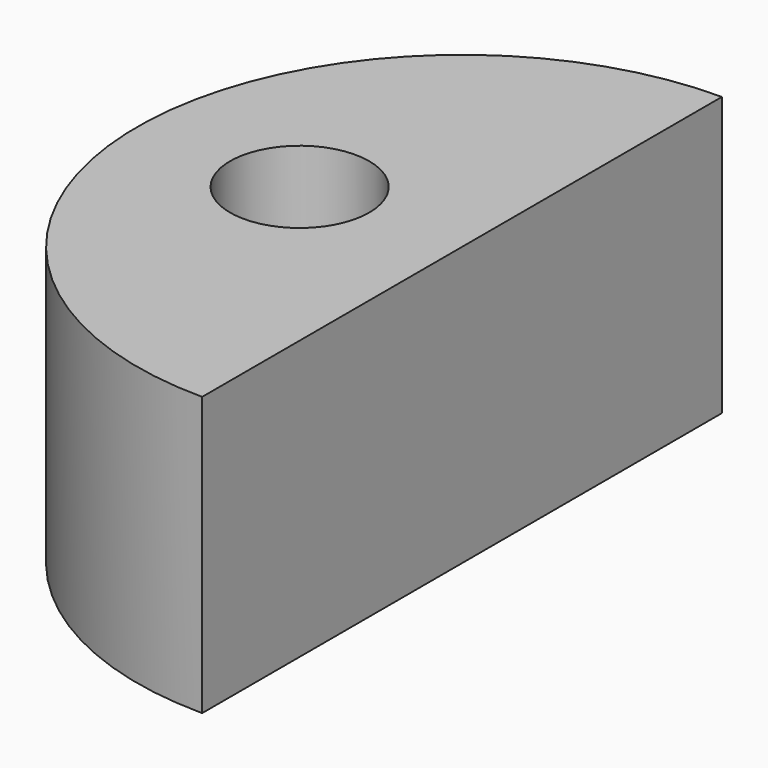
from build123d import *

# Parameters (mm, degrees)
F1_DEPTH = 76.2
F2_R     = 19.05
F3_DEPTH = 76.2


with BuildPart() as f1:
    # F0 (on Top) → F1 (new body)
    with BuildSketch(Plane.XY):
        with BuildLine():
            Line((0, -88.9), (0, 88.9))
            ThreePointArc((0, 88.9), (-88.9, 0), (0, -88.9))
        make_face()
    extrude(amount=F1_DEPTH)

    # F2 (on face) → F3 (cut)
    with BuildSketch(Plane.XY.offset(76.2)):
        with Locations((-44.45, 0)):
            Circle(F2_R)
    extrude(amount=-F3_DEPTH, mode=Mode.SUBTRACT)


solid = f1.part
